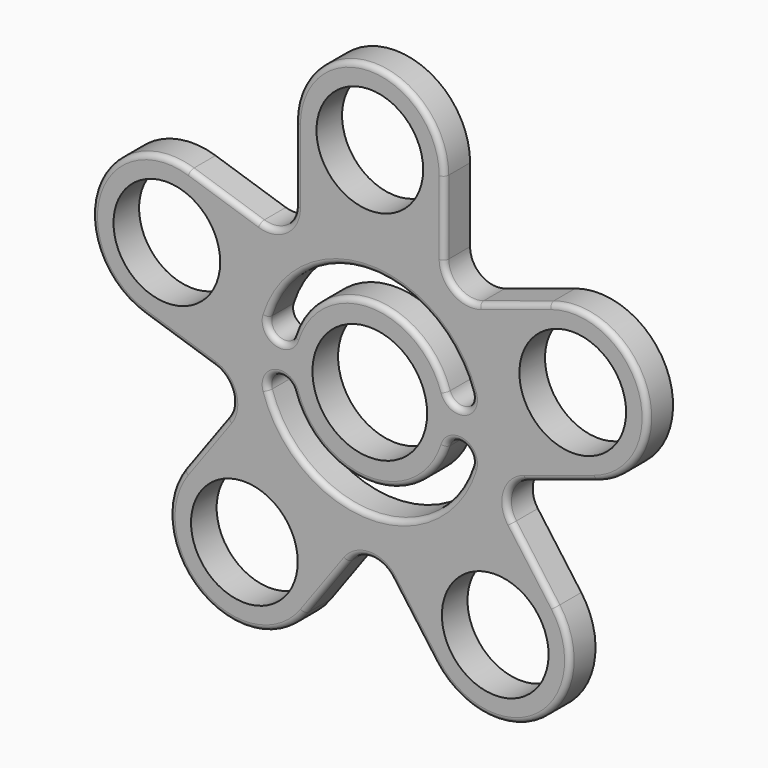
from build123d import *

# Parameters (mm, degrees)
F0_R     = 10
F0_R_2   = 10.75
F1_DEPTH = 6
F2_R     = 1


with BuildPart() as f1:
    # F0 (on Front) → F1 (new body)
    with BuildSketch(Plane.XZ):
        with BuildLine():
            Line((14, 27.604409), (14, 41.453153))
            ThreePointArc((14, 41.453153), (0, 55.453153), (-14, 41.453153))
            Line((-14, 41.453153), (-14, 27.604409))
            ThreePointArc((-14, 27.604409), (-16.061074, 23.559324), (-20.545085, 22.849127))
            Line((-20.545085, 22.849127), (-33.716023, 27.128624))
            ThreePointArc((-33.716023, 27.128624), (-51.357052, 18.14007), (-42.368499, 0.499041))
            Line((-42.368499, 0.499041), (-29.197561, -3.780456))
            ThreePointArc((-29.197561, -3.780456), (-25.987363, -6.990653), (-26.697561, -11.474665))
            Line((-26.697561, -11.474665), (-34.837648, -22.678534))
            ThreePointArc((-34.837648, -22.678534), (-31.740404, -42.233765), (-12.185172, -39.136521))
            Line((-12.185172, -39.136521), (-4.045085, -27.932652))
            ThreePointArc((-4.045085, -27.932652), (0, -25.871578), (4.045085, -27.932652))
            Line((4.045085, -27.932652), (12.185172, -39.136521))
            ThreePointArc((12.185172, -39.136521), (31.740404, -42.233765), (34.837648, -22.678534))
            Line((34.837648, -22.678534), (26.697561, -11.474665))
            ThreePointArc((26.697561, -11.474665), (25.987363, -6.990653), (29.197561, -3.780456))
            Line((29.197561, -3.780456), (42.368499, 0.499041))
            ThreePointArc((42.368499, 0.499041), (51.357052, 18.14007), (33.716023, 27.128624))
            Line((33.716023, 27.128624), (20.545085, 22.849127))
            ThreePointArc((20.545085, 22.849127), (16.061074, 23.559324), (14, 27.604409))
        make_face()
        with Locations((-23.51141, -30.907527)):
            Circle(F0_R, mode=Mode.SUBTRACT)
        with Locations((23.51141, -30.907527)):
            Circle(F0_R, mode=Mode.SUBTRACT)
        with BuildLine():
            ThreePointArc((19.064548, -4.59193), (0, -18.546847), (-19.064548, -4.59193))
            ThreePointArc((-19.064548, -4.59193), (-17.437114, -1.453226), (-14.298411, -3.080659))
            ThreePointArc((-14.298411, -3.080659), (0, -13.546847), (14.298411, -3.080659))
            ThreePointArc((14.298411, -3.080659), (17.437114, -1.453226), (19.064548, -4.59193))
        make_face(mode=Mode.SUBTRACT)
        with Locations((0, 1.453153)):
            Circle(F0_R_2, mode=Mode.SUBTRACT)
        with Locations((-38.042261, 13.813832)):
            Circle(F0_R, mode=Mode.SUBTRACT)
        with BuildLine():
            ThreePointArc((-19.064548, 7.498236), (0, 21.453153), (19.064548, 7.498236))
            ThreePointArc((19.064548, 7.498236), (17.437114, 4.359532), (14.298411, 5.986965))
            ThreePointArc((14.298411, 5.986965), (0, 16.453153), (-14.298411, 5.986965))
            ThreePointArc((-14.298411, 5.986965), (-17.437114, 4.359532), (-19.064548, 7.498236))
        make_face(mode=Mode.SUBTRACT)
        with Locations((38.042261, 13.813832)):
            Circle(F0_R, mode=Mode.SUBTRACT)
        with Locations((0, 41.453153)):
            Circle(F0_R, mode=Mode.SUBTRACT)
    extrude(amount=F1_DEPTH)

    # F2
    f2_edges = [f1.edges().sort_by_distance(p)[0] for p in [
        (-14, -6, 34.528781),
        (0, -6, 55.453153),
        (14, -6, 34.528781),
        (0, -6, -18.546847),
        (0, -6, 21.453153),
    ]]
    fillet(f2_edges, radius=F2_R)


solid = f1.part
